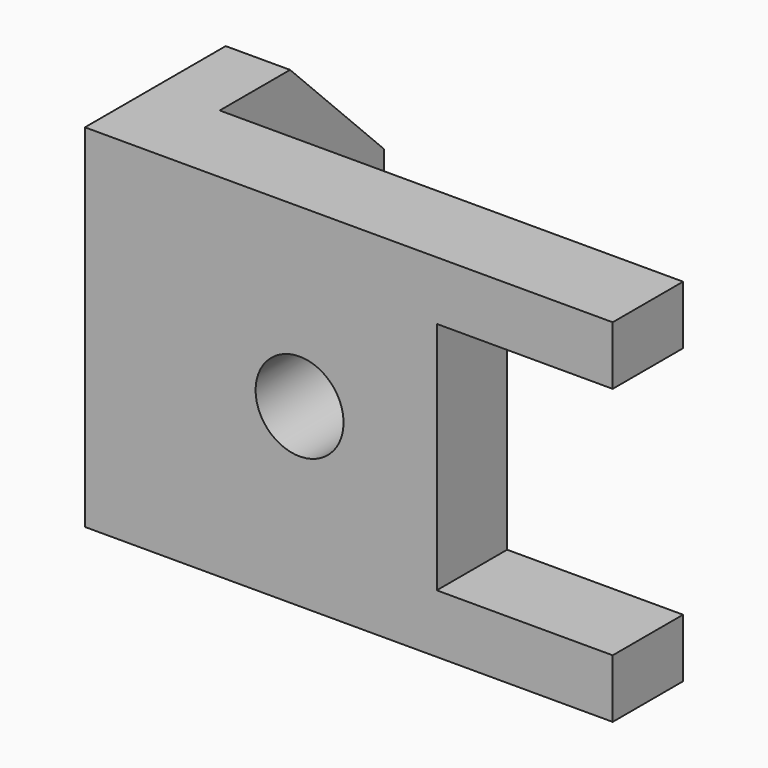
from build123d import *

# Parameters (mm, degrees)
F1_DEPTH = 76.2
F2_SIZE  = 25.4
F3_R     = 9.525
F4_DEPTH = 19.051
F5_W     = 38.1
F5_H     = 50.8
F6_DEPTH = 19.051


with BuildPart() as f1:
    # F0 (on Top) → F1 (new body)
    with BuildSketch(Plane.XY):
        Polygon((-70.440705, 25.967644), (-84.387472, 25.967644), (-84.387472, -37.532356), (29.912528, -37.532356), (29.912528, -18.482356), (-70.440705, -18.482356), align=None)
        Polygon((-70.440705, 25.967644), (-84.387472, 25.967644), (-84.387472, -37.532356), (29.912528, -37.532356), (29.912528, -18.482356), (-70.440705, -18.482356), align=None)
    extrude(amount=F1_DEPTH)

    # F2
    f2_edges = [f1.edges().sort_by_distance(p)[0] for p in [
        (-77.414089, 25.967644, 76.2),
    ]]
    chamfer(f2_edges, length=F2_SIZE)

    # F3 (on face) → F4 (cut, through all)
    with BuildSketch(Plane(origin=(0, -18.482356, 0), x_dir=(-1, 0, 0), z_dir=(0, 1, 0))):
        with Locations((37.905472, 38.1)):
            Circle(F3_R)
    extrude(amount=-F4_DEPTH, mode=Mode.SUBTRACT)

    # F5 (on face) → F6 (cut, through all)
    with BuildSketch(Plane(origin=(0, -18.482356, 0), x_dir=(-1, 0, 0), z_dir=(0, 1, 0))):
        with Locations((-10.862528, 38.1)):
            Rectangle(F5_W, F5_H)
    extrude(amount=-F6_DEPTH, mode=Mode.SUBTRACT)


solid = f1.part
